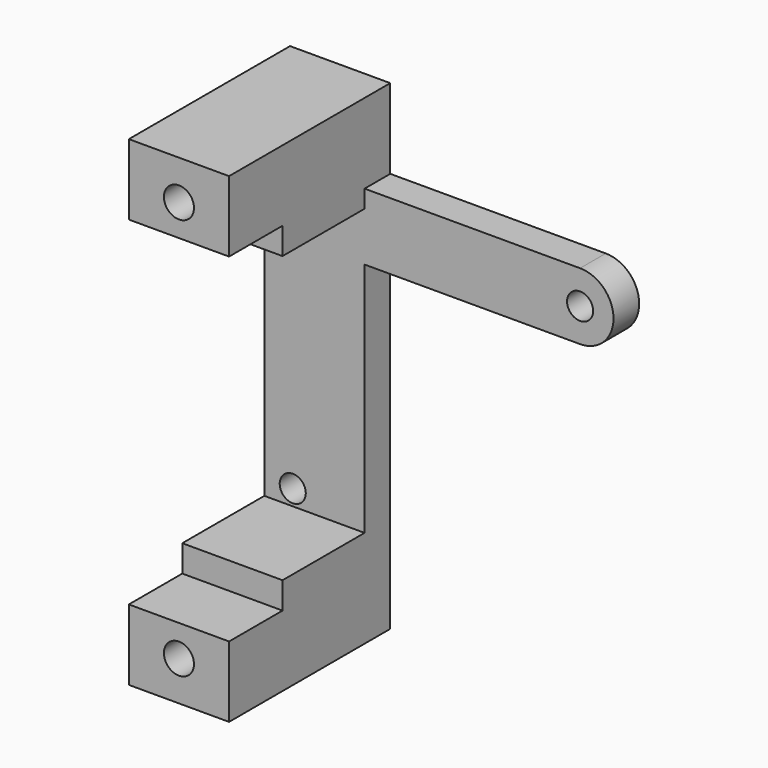
from build123d import *

# Parameters (mm, degrees)
F0_R     = 1.95
F1_DEPTH = 4.8
F0_W     = 15
F0_H     = 4
F2_DEPTH = 20.15
F0_H_2   = 10.6
F0_R_2   = 4.25
F0_R_3   = 2.25
F3_DEPTH = 30.15
F4_DEPTH = 3.4
F5_DEPTH = 3.6
F6_DEPTH = 3.4


with BuildPart() as f1:
    # F0 (on Front) → F1 (new body)
    with BuildSketch(Plane.XZ):
        Polygon((7.5, 21.35), (-7.5, 21.35), (-7.5, -21.35), (7.5, -21.35), (7.5, 14), align=None)
        with Locations((-3.25, -19)):
            Circle(F0_R, mode=Mode.SUBTRACT)
        with BuildLine():
            Line((39.75, 24), (7.5, 24))
            Line((7.5, 24), (7.5, 21.35))
            Line((7.5, 21.35), (7.5, 14))
            Line((7.5, 14), (39.75, 14))
            ThreePointArc((39.75, 14), (44.75, 19), (39.75, 24))
        make_face()
        with Locations((39.75, 19)):
            Circle(F0_R, mode=Mode.SUBTRACT)
    extrude(amount=F1_DEPTH)

    # F0 (on Front) → F2 (join)
    with BuildSketch(Plane.XZ):
        Polygon((7.5, 24), (7.5, 25.35), (-7.5, 25.35), (-7.5, 21.35), (7.5, 21.35), align=None)
        with Locations((0, -23.35)):
            Rectangle(F0_W, F0_H)
    extrude(amount=F2_DEPTH)

    # F0 (on Front) → F3 (join)
    with BuildSketch(Plane.XZ):
        with Locations((0, 30.65)):
            Rectangle(F0_W, F0_H_2)
        with Locations((0, 30.05)):
            Circle(F0_R_2, mode=Mode.SUBTRACT)
        with Locations((0, 30.05)):
            Circle(F0_R_2)
        with Locations((0, 30.05)):
            Circle(F0_R_3, mode=Mode.SUBTRACT)
        with Locations((0, -30.65)):
            Rectangle(F0_W, F0_H_2)
        with Locations((0, -30.05)):
            Circle(F0_R_2, mode=Mode.SUBTRACT)
        with Locations((0, -30.05)):
            Circle(F0_R_2)
        with Locations((0, -30.05)):
            Circle(F0_R_3, mode=Mode.SUBTRACT)
    extrude(amount=F3_DEPTH)

    # F0 (on Front) → F4 (cut)
    with BuildSketch(Plane.XZ):
        with Locations((0, -30.05)):
            Circle(F0_R_2)
        with Locations((0, -30.05)):
            Circle(F0_R_3, mode=Mode.SUBTRACT)
        with Locations((0, 30.05)):
            Circle(F0_R_2)
        with Locations((0, 30.05)):
            Circle(F0_R_3, mode=Mode.SUBTRACT)
    extrude(amount=F4_DEPTH, mode=Mode.SUBTRACT)

    # F0 (on Front) → F5 (join)
    with BuildSketch(Plane.XZ):
        with Locations((0, 30.05)):
            Circle(F0_R_3)
        with Locations((0, -30.05)):
            Circle(F0_R_3)
    extrude(amount=F5_DEPTH)

    # F0 (on Front) → F6 (cut)
    with BuildSketch(Plane.XZ):
        with Locations((0, -30.05)):
            Circle(F0_R_3)
        with Locations((0, 30.05)):
            Circle(F0_R_3)
    extrude(amount=F6_DEPTH, mode=Mode.SUBTRACT)


solid = f1.part
